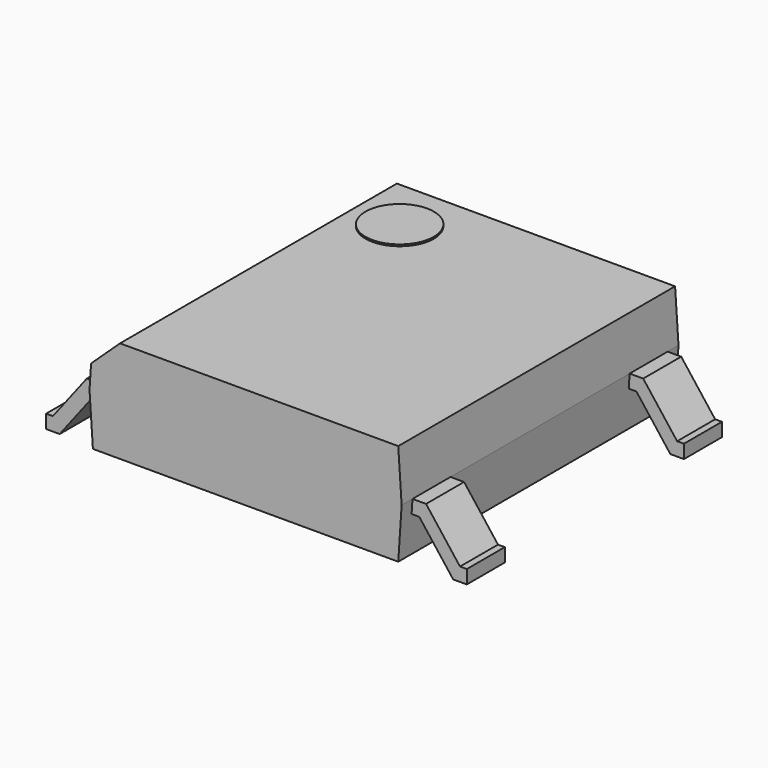
from build123d import *

# Parameters (mm, degrees)
PAD002_DEPTH = 0.35
PAD_DEPTH    = 2.55
CHAMFER_SIZE = 0.4
SKETCH003_R  = 0.503583
PAD003_DEPTH = 0.075
PAD001_DEPTH = 0.35


with BuildPart() as pad002:
    # Sketch002 → Pad002 (new body, symmetric)
    with BuildSketch(Plane.XZ.offset(-2)):
        Polygon((-3.1, 0), (-2.9, 0), (-2.4, 0.65), (2.4, 0.65), (2.9, 0), (3.1, 0), (3.1, 0.2), (3, 0.2), (2.5, 0.85), (-2.5, 0.85), (-3, 0.2), (-3.1, 0.2), align=None)
    extrude(amount=PAD002_DEPTH, both=True)


with BuildPart() as chamfer_body:
    # Sketch → Pad (new body, symmetric)
    with BuildSketch(Plane.XZ):
        Polygon((-2.25, 0.1), (2.25, 0.1), (2.3, 0.85), (2.25, 1.6), (-2.25, 1.6), (-2.3, 0.85), align=None)
    extrude(amount=PAD_DEPTH, both=True)

    # Chamfer
    chamfer_edges = [chamfer_body.edges().sort_by_distance(p)[0] for p in [
        (-2.25, 0, 1.6),
    ]]
    chamfer(chamfer_edges, length=CHAMFER_SIZE)


with BuildPart() as pad003:
    # Sketch003 → Pad003 (new body)
    with BuildSketch(Plane.XY.offset(1.55)):
        with Locations((-1.162023, 1.741391)):
            Circle(SKETCH003_R)
    extrude(amount=PAD003_DEPTH)


with BuildPart() as obj1:
    # Sketch001 → Pad001 (new body, symmetric)
    with BuildSketch(Plane.XZ.offset(2)):
        Polygon((-3.1, 0), (-2.9, 0), (-2.4, 0.65), (2.4, 0.65), (2.9, 0), (3.1, 0), (3.1, 0.2), (3, 0.2), (2.5, 0.85), (-2.5, 0.85), (-3, 0.2), (-3.1, 0.2), align=None)
    extrude(amount=PAD001_DEPTH, both=True)

    add(pad002.part)
    add(chamfer_body.part)
    add(pad003.part)


solid = obj1.part
